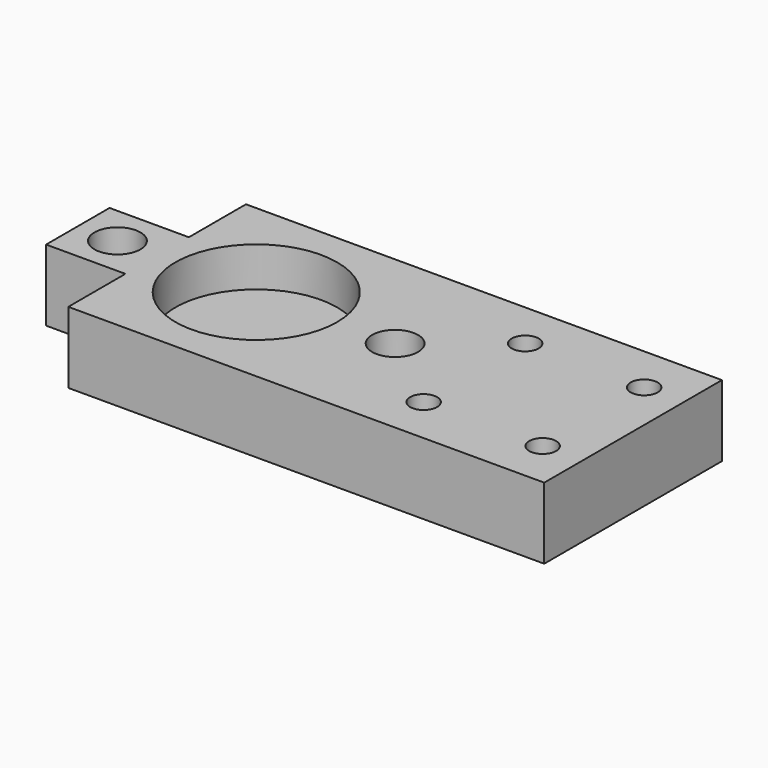
from build123d import *

# Parameters (mm, degrees)
SKETCH_W        = 60
SKETCH_H        = 28
SKETCH_R        = 1.7
SKETCH_R_2      = 10.2
SKETCH_R_3      = 2.9
PAD_DEPTH       = 5
SKETCH001_R     = 4.1
POCKET001_DEPTH = 3.2
SKETCH002_W     = 60
SKETCH002_H     = 28
SKETCH002_R     = 2.8
SKETCH002_R_2   = 4.1
PAD001_DEPTH    = 4
SKETCH003_R     = 11.2
POCKET_DEPTH    = 3
SKETCH004_W     = 10
SKETCH004_H     = 9
PAD002_DEPTH    = 10
SKETCH009_R     = 2.9
POCKET002_DEPTH = 9


with BuildPart() as part:
    # Sketch → Pad (new body)
    with BuildSketch(Plane.XY):
        Rectangle(SKETCH_W, SKETCH_H)
        with Locations((10, 8)):
            Circle(SKETCH_R, mode=Mode.SUBTRACT)
        with Locations((25, 8)):
            Circle(SKETCH_R, mode=Mode.SUBTRACT)
        with Locations((10, -8)):
            Circle(SKETCH_R, mode=Mode.SUBTRACT)
        with Locations((25, -8)):
            Circle(SKETCH_R, mode=Mode.SUBTRACT)
        with Locations((-17.5, 0)):
            Circle(SKETCH_R_2, mode=Mode.SUBTRACT)
        Circle(SKETCH_R_3, mode=Mode.SUBTRACT)
    extrude(amount=PAD_DEPTH)

    # Sketch001 (on Face11 of Pad) → Pocket001 (cut)
    with BuildSketch(Plane(origin=(0, 0, 0), x_dir=(1, 0, 0), z_dir=(0, 0, -1))):
        with Locations((25, 8)):
            Circle(SKETCH001_R)
        with Locations((25, -8)):
            Circle(SKETCH001_R)
        with Locations((10, 8)):
            Circle(SKETCH001_R)
        with Locations((10, -8)):
            Circle(SKETCH001_R)
    extrude(amount=-POCKET001_DEPTH, mode=Mode.SUBTRACT)

    # Sketch002 (on Face4 of Pocket001) → Pad001 (join)
    with BuildSketch(Plane(origin=(0, 0, 0), x_dir=(1, 0, 0), z_dir=(0, 0, -1))):
        Rectangle(SKETCH002_W, SKETCH002_H)
        Circle(SKETCH002_R, mode=Mode.SUBTRACT)
        with Locations((10, 8)):
            Circle(SKETCH002_R_2, mode=Mode.SUBTRACT)
        with Locations((10, -8)):
            Circle(SKETCH002_R_2, mode=Mode.SUBTRACT)
        with Locations((25, 8)):
            Circle(SKETCH002_R_2, mode=Mode.SUBTRACT)
        with Locations((25, -8)):
            Circle(SKETCH002_R_2, mode=Mode.SUBTRACT)
    extrude(amount=PAD001_DEPTH)

    # Sketch003 (on Face9 of Pad001) → Pocket (cut)
    with BuildSketch(Plane(origin=(0, 0, -4), x_dir=(1, 0, 0), z_dir=(0, 0, -1))):
        with Locations((-17.5, 0)):
            Circle(SKETCH003_R)
    extrude(amount=-POCKET_DEPTH, mode=Mode.SUBTRACT)

    # Sketch004 (on Face7 of Pocket) → Pad002 (join)
    with BuildSketch(Plane(origin=(-30, 0, 0), x_dir=(0, -1, 0), z_dir=(-1, 0, 0))):
        with Locations((0, 0.5)):
            Rectangle(SKETCH004_W, SKETCH004_H)
    extrude(amount=PAD002_DEPTH)

    # Sketch009 → Pocket002 (cut)
    with BuildSketch(Plane(origin=(0, 0, -4), x_dir=(1, 0, 0), z_dir=(0, 0, -1))):
        with Locations((-35, 0)):
            Circle(SKETCH009_R)
    extrude(amount=-POCKET002_DEPTH, mode=Mode.SUBTRACT)


solid = part.part
